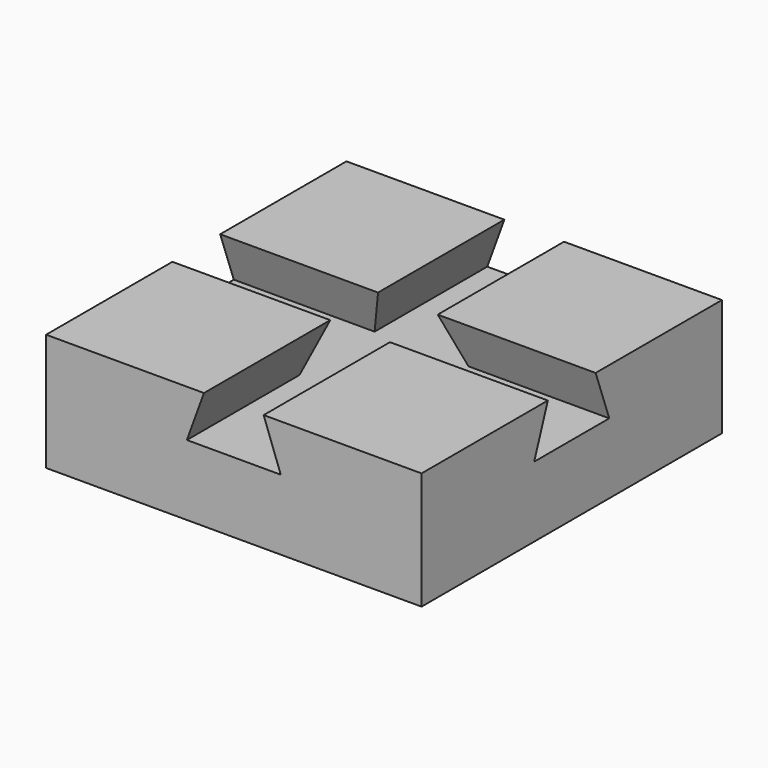
from build123d import *

# Parameters (mm, degrees)
F1_DEPTH = 80
F3_DEPTH = 80


with BuildPart() as f1:
    # F0 (on Front) → F1 (new body)
    with BuildSketch(Plane.XZ):
        Polygon((-67.573077, 5.393857), (12.426923, 5.393857), (12.426923, 30.393857), (-21.213077, 30.393857), (-17.573077, 20.393857), (-37.573077, 20.393857), (-33.933077, 30.393857), (-67.573077, 30.393857), align=None)
    extrude(amount=-F1_DEPTH)

    # F2 (on face) → F3 (cut)
    with BuildSketch(Plane.YZ.offset(12.426923)):
        Polygon((33.64, 30.393857), (30, 20.393857), (50, 20.393857), (46.36, 30.393857), align=None)
    extrude(amount=-F3_DEPTH, mode=Mode.SUBTRACT)


solid = f1.part
